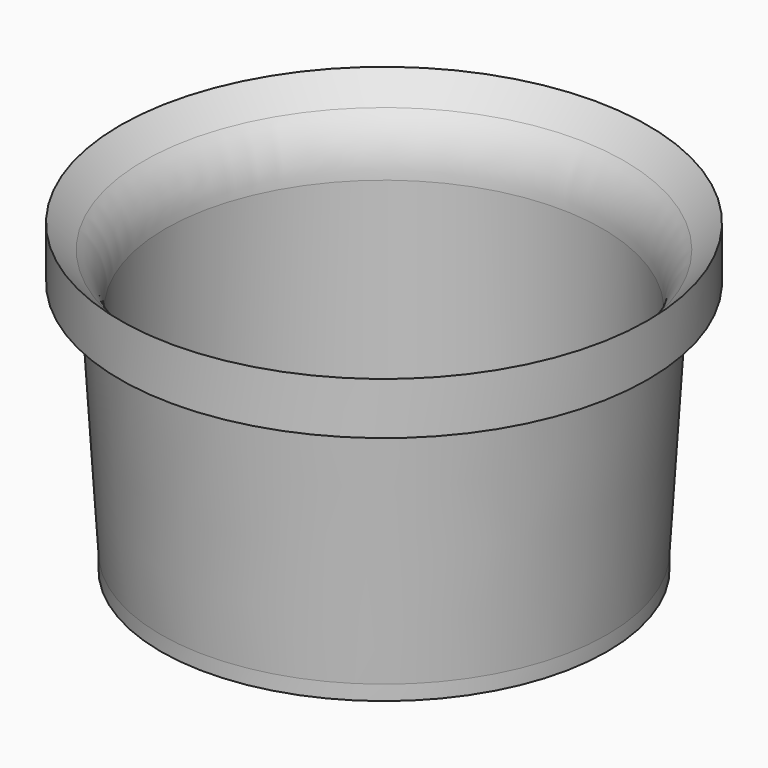
from build123d import *


with BuildPart() as f3:
    # F1 (on Front) → F3 (revolve)
    with BuildSketch(Plane.XZ):
        with BuildLine():
            Line((31.95, 36), (35.5, 36))
            Line((35.5, 36), (35.5, 43))
            Line((35.5, 43), (32.328932, 39.828932))
            ThreePointArc((32.328932, 39.828932), (30.161205, 36.584699), (29.4, 32.757864))
            Line((29.4, 32.757864), (29.4, 4))
            Line((29.4, 4), (29.4, 2))
            Line((29.4, 2), (30, 2))
            Line((30, 2), (30, 4))
            Line((30, 4), (31.95, 36))
        make_face()
    revolve(axis=Axis((0, 0, 15.079502), (0, 0, 1)))


solid = f3.part
